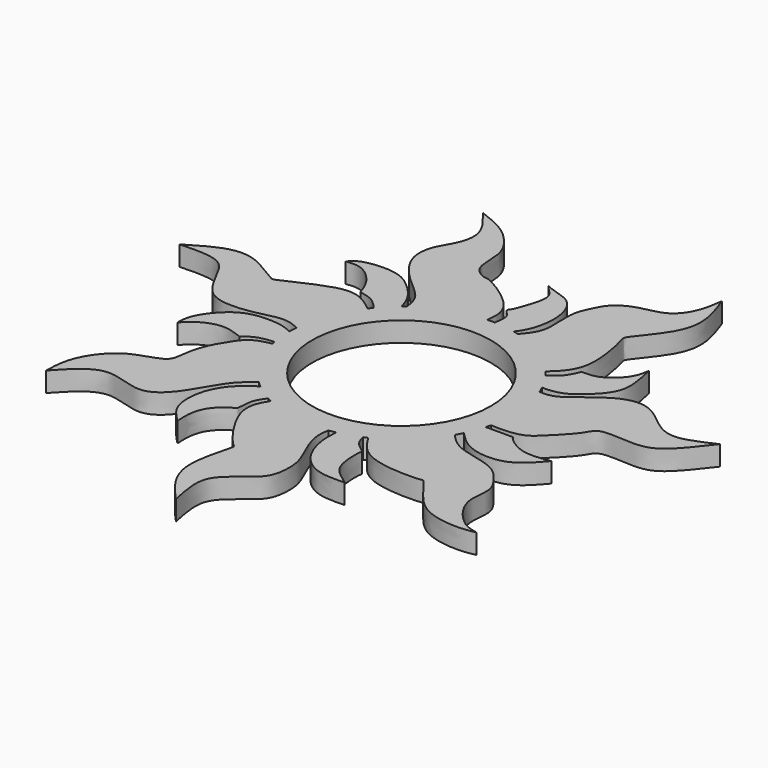
from build123d import *

# Parameters (mm, degrees)
F0_R     = 13.5
F1_DEPTH = 3


with BuildPart() as f1:
    # F0 (on Top) → F1 (new body)
    with BuildSketch(Plane.XY):
        with BuildLine():
            ThreePointArc((0.4527631407, 16.4270334261), (1.8954037957, 16.323598442), (3.3233620576, 16.0937157387))
            add(Edge.make_bspline(
                [(3.3233620576, 16.0937157387), (3.4487833909, 16.2549330611), (3.5736469408, 16.4155102917), (3.6964590938, 16.5795793548)],
                knots=[0, 0, 0, 0, 0.0508119157, 0.0508119157, 0.0508119157, 0.0508119157], degree=3))
            ThreePointArc((3.6964590938, 16.5795793548), (2.1242640518, 16.8533012687), (0.5333201696, 16.9782752661))
            add(Edge.make_bspline(
                [(0.4527631407, 16.4270334261), (0.4790581382, 16.6102726218), (0.5067720833, 16.7950140582), (0.5333201696, 16.9782752661)],
                knots=[0, 0, 0, 0, 0.1003175762, 0.1003175762, 0.1003175762, 0.1003175762], degree=3))
        make_face()
        with BuildLine():
            ThreePointArc((4.0727403554, 15.9205906813), (8.7406195199, 13.9159617724), (12.5731990081, 10.5814502005))
            add(Edge.make_bspline(
                [(12.5731990081, 10.5814502005), (12.7125886214, 10.7023675799), (12.8519824761, 10.8232868798), (12.9904064171, 10.9451177488)],
                knots=[0, 0, 0, 0, 0.0180966737, 0.0180966737, 0.0180966737, 0.0180966737], degree=3))
            ThreePointArc((12.9904064171, 10.9451177488), (9.1484644569, 14.3126468375), (4.4789880584, 16.3855096774))
            add(Edge.make_bspline(
                [(4.4789880584, 16.3855096774), (4.3450801169, 16.230546624), (4.2089114271, 16.0756383257), (4.0727403554, 15.9205906813)],
                knots=[0.978234219, 0.978234219, 0.978234219, 0.978234219, 1, 1, 1, 1], degree=3))
        make_face()
        with BuildLine():
            ThreePointArc((4.4789880584, 16.3855096774), (9.1484644569, 14.3126468375), (12.9904064171, 10.9451177488))
            add(Edge.make_bspline(
                [(12.9904064171, 10.9451177488), (14.2659897877, 12.0677951516), (16.9982306912, 14.8157535852), (14.9979748472, 22.9349522822), (14.6949780018, 23.705672023), (18.8244218218, 28.1659606503), (19.9238392424, 32.7431332441), (18.6806944754, 36.1942223283), (18.0421032829, 37.967014264)],
                knots=[0.0180966737, 0.0180966737, 0.0180966737, 0.0180966737, 0.1848584048, 0.3999481418, 0.4683328469, 0.6496963086, 0.8200471252, 1, 1, 1, 1], degree=3))
            add(Edge.make_bspline(
                [(18.0421032829, 37.967014264), (17.8467165036, 36.6517416674), (17.4689388233, 34.1086804262), (15.1529808536, 31.1251563171), (11.5139952383, 30.7899884606), (8.3275766948, 29.2321167255), (7.1223281241, 26.7438482337), (6.0583284394, 24.4307638311), (6.5073952788, 20.5451517214), (6.0435773761, 18.2825255825), (4.9972076363, 16.9852118846), (4.4789880584, 16.3855096774)],
                knots=[0, 0, 0, 0, 0.1238723684, 0.2395559216, 0.3575619978, 0.4731456599, 0.57436984, 0.6740714182, 0.7962651246, 0.8940013222, 0.978234219, 0.978234219, 0.978234219, 0.978234219], degree=3))
        make_face()
        with BuildLine():
            ThreePointArc((13.5935800904, 10.1863065799), (14.4908261869, 8.8635330335), (15.2597709194, 7.4622820171))
            add(Edge.make_bspline(
                [(15.2597709194, 7.4622820171), (16.1828174834, 7.477072795), (18.2730422064, 7.6137859191), (21.111939903, 9.9590594177), (23.7019710985, 13.0899789792), (22.8770288143, 16.7050627984), (22.4228607869, 18.6943800295)],
                knots=[0.04118371, 0.04118371, 0.04118371, 0.04118371, 0.2268465315, 0.4673783033, 0.7071278074, 1, 1, 1, 1], degree=3))
            add(Edge.make_bspline(
                [(16.3981906139, 13.5147989797), (17.2593589802, 13.5181241922), (19.136386723, 13.5253719223), (22.0601085214, 16.2568734962), (22.3109716633, 17.94254332), (22.4228607869, 18.6943800295)],
                knots=[0, 0, 0, 0, 0.3195543204, 0.6965099372, 1, 1, 1, 1], degree=3))
            add(Edge.make_bspline(
                [(13.5935800904, 10.1863065799), (14.1455824654, 10.490686809), (15.3775166687, 11.2640254723), (16.0264698685, 12.6937374021), (16.3981906139, 13.5147989797)],
                knots=[0.111597176, 0.111597176, 0.111597176, 0.111597176, 0.4901789333, 1, 1, 1, 1], degree=3))
        make_face()
        with BuildLine():
            ThreePointArc((13.1004007557, 9.9212862917), (13.9268795251, 8.7232131887), (14.6441078517, 7.4567101908))
            add(Edge.make_bspline(
                [(14.6441078517, 7.4567101908), (14.8496564688, 7.4579228817), (15.0550208156, 7.4590011281), (15.2597709194, 7.4622820171)],
                knots=[0, 0, 0, 0, 0.04118371, 0.04118371, 0.04118371, 0.04118371], degree=3))
            ThreePointArc((15.2597709194, 7.4622820171), (14.4908261869, 8.8635330335), (13.5935800904, 10.1863065799))
            add(Edge.make_bspline(
                [(13.1004007557, 9.9212862917), (13.2657962923, 10.0090449954), (13.4308625135, 10.0965823042), (13.5935800904, 10.1863065799)],
                knots=[0, 0, 0, 0, 0.111597176, 0.111597176, 0.111597176, 0.111597176], degree=3))
        make_face()
        with BuildLine():
            ThreePointArc((-12.9731480687, 10.9655684121), (-11.8462646266, 12.1742464166), (-10.6072694911, 13.2677087456))
            add(Edge.make_bspline(
                [(-10.6072694911, 13.2677087456), (-10.8121057676, 13.9796399603), (-11.3758915495, 15.6657179535), (-13.6312792056, 18.1085203994), (-16.4483789451, 20.0365489105), (-21.6990239519, 19.6225686413), (-22.6308255147, 18.570666018), (-22.9810527918, 18.1753152704)],
                knots=[0.0403795604, 0.0403795604, 0.0403795604, 0.0403795604, 0.1891084255, 0.3957491623, 0.6038140496, 0.8511402726, 1, 1, 1, 1], degree=3))
            add(Edge.make_bspline(
                [(-22.9810527918, 18.1753152704), (-22.3351932658, 18.2569623749), (-20.9527410188, 18.4317267291), (-18.7195824137, 16.9788644389), (-17.2818001665, 14.8654049149), (-16.9133868901, 13.698228284), (-16.7467538984, 13.1703153495)],
                knots=[0, 0, 0, 0, 0.2366816357, 0.5066133516, 0.7768416652, 1, 1, 1, 1], degree=3))
            add(Edge.make_bspline(
                [(-16.7467538984, 13.1703153495), (-15.973162109, 13.0032103429), (-14.5355683178, 12.6928167423), (-13.4561034794, 11.5357629696), (-12.9731480687, 10.9655684121)],
                knots=[0, 0, 0, 0, 0.4824683784, 0.8965523207, 0.8965523207, 0.8965523207, 0.8965523207], degree=3))
        make_face()
        with BuildLine():
            ThreePointArc((-16.9330431484, 1.3484476808), (-15.8422669219, 6.1293425577), (-13.4312344285, 10.3994328278))
            add(Edge.make_bspline(
                [(-41.0277742945, 9.335494722), (-39.307595712, 10.3780637608), (-36.0680062348, 12.3415253565), (-31.6213299503, 12.4141815889), (-27.1768278645, 9.1822086987), (-26.5044653271, 9.2553846178), (-20.7465897391, 12.1695267715), (-16.7147367235, 12.8638566017), (-14.4710894512, 11.2205910602), (-13.4312344285, 10.3994328278)],
                knots=[0, 0, 0, 0, 0.1688945728, 0.3182243367, 0.475713053, 0.5318675548, 0.7068041557, 0.8542492245, 0.9822269538, 0.9822269538, 0.9822269538, 0.9822269538], degree=3))
            add(Edge.make_bspline(
                [(-16.9330431484, 1.3484476808), (-17.6552161066, 1.6776822827), (-19.3456001564, 2.3371633989), (-22.42292938, 1.4083511227), (-26.0711758134, 0.7941494527), (-30.3268172599, 1.2903414052), (-32.6075681703, 5.7944472057), (-34.5287737714, 9.5867307578), (-38.694901891, 9.4256785613), (-41.0277742945, 9.335494722)],
                knots=[0.0241408886, 0.0241408886, 0.0241408886, 0.0241408886, 0.1215365173, 0.2503603451, 0.3890133713, 0.5292988112, 0.6847243272, 0.8235284172, 1, 1, 1, 1], degree=3))
        make_face()
        with BuildLine():
            ThreePointArc((-16.6990076951, -3.1127806565), (-16.9154455112, -1.5536938472), (-16.986639175, 0.0187337249))
            add(Edge.make_bspline(
                [(-16.986639175, 0.0187337249), (-17.3887176079, 0.2458947176), (-18.6942913282, 0.8738148671), (-22.4554754584, 1.0866507921), (-25.8044073085, -0.1981335994), (-28.6770183113, -3.9436187867), (-28.7157597139, -5.6532889989), (-28.7320551573, -6.3709209444)],
                knots=[0.0524226449, 0.0524226449, 0.0524226449, 0.0524226449, 0.1631535311, 0.3839877932, 0.5963877707, 0.8306905856, 1, 1, 1, 1], degree=3))
            add(Edge.make_bspline(
                [(-28.7320551573, -6.3709209444), (-28.1723099827, -5.8107323128), (-26.9819646803, -4.6194439615), (-23.8521594488, -3.4827851427), (-21.8132106972, -4.2354276081), (-20.7855215087, -4.614781196)],
                knots=[0, 0, 0, 0, 0.3056728093, 0.6500389985, 1, 1, 1, 1], degree=3))
            add(Edge.make_bspline(
                [(-20.7855215087, -4.614781196), (-20.2339532224, -4.1936983711), (-19.155497956, -3.3712038144), (-17.5229116032, -3.1793418572), (-16.6990076951, -3.1127806565)],
                knots=[0, 0, 0, 0, 0.461239649, 0.9015857316, 0.9015857316, 0.9015857316, 0.9015857316], degree=3))
        make_face()
        with BuildLine():
            add(Edge.make_bspline(
                [(-11.7085513843, -12.3067496073), (-12.5637341353, -12.9369029582), (-14.6329069382, -14.5869109765), (-17.0243995718, -19.7601046139), (-21.2169981688, -23.8423369422), (-27.8011879406, -19.8492781515), (-31.3249280092, -23.6758776784), (-33.1614554136, -25.6702639399)],
                knots=[0.0251341018, 0.0251341018, 0.0251341018, 0.0251341018, 0.1673185585, 0.375335195, 0.5643454095, 0.7730681591, 1, 1, 1, 1], degree=3))
            ThreePointArc((-11.7085513843, -12.3067496073), (-14.8007876107, -8.3356431976), (-16.593655783, -3.6327467801))
            add(Edge.make_bspline(
                [(-33.1614554136, -25.6702639399), (-33.1203726323, -24.2564823716), (-33.0299493312, -21.1448074976), (-29.1354744784, -15.7332275666), (-23.3166653163, -14.9806148379), (-23.2591753049, -12.3891760003), (-22.5177054073, -9.1520740142), (-20.9754643343, -6.5243403299), (-19.4339472278, -4.2885952909), (-17.5405347663, -3.821733171), (-16.593655783, -3.6327467801)],
                knots=[0, 0, 0, 0, 0.1368435945, 0.3013320487, 0.4485248019, 0.541681764, 0.660609366, 0.7754870934, 0.8823687774, 0.9811940127, 0.9811940127, 0.9811940127, 0.9811940127], degree=3))
        make_face()
        with BuildLine():
            ThreePointArc((-12.6131627807, 10.5337811973), (-11.5791959189, 11.6608165886), (-10.4449256814, 12.6868415751))
            add(Edge.make_bspline(
                [(-10.4449256814, 12.6868415751), (-10.4983380831, 12.8806706216), (-10.5516568916, 13.0744209833), (-10.6072694911, 13.2677087456)],
                knots=[0, 0, 0, 0, 0.0403795604, 0.0403795604, 0.0403795604, 0.0403795604], degree=3))
            ThreePointArc((-10.6072694911, 13.2677087456), (-11.8462646266, 12.1742464166), (-12.9731480687, 10.9655684121))
            add(Edge.make_bspline(
                [(-12.9731480687, 10.9655684121), (-12.8524947148, 10.8231207157), (-12.7328155406, 10.6784390146), (-12.6131627807, 10.5337811973)],
                knots=[0.8965523207, 0.8965523207, 0.8965523207, 0.8965523207, 1, 1, 1, 1], degree=3))
        make_face()
        with BuildLine():
            ThreePointArc((-10.0711756844, 12.9855243243), (-5.6386794289, 15.4355989822), (-0.6706149311, 16.419582737))
            add(Edge.make_bspline(
                [(-0.6706149311, 16.419582737), (-0.6454173261, 16.6052645006), (-0.6202197211, 16.7909462642), (-0.5971456967, 16.976150283)],
                knots=[0, 0, 0, 0, 0.018603457, 0.018603457, 0.018603457, 0.018603457], degree=3))
            ThreePointArc((-0.5971456967, 16.976150283), (-5.6210702779, 16.029654717), (-10.1358548389, 13.6312401527))
            add(Edge.make_bspline(
                [(-10.1358548389, 13.6312401527), (-10.1121618411, 13.4170620603), (-10.0917900927, 13.2013905134), (-10.0711756844, 12.9855243243)],
                knots=[0.9773256654, 0.9773256654, 0.9773256654, 0.9773256654, 1, 1, 1, 1], degree=3))
        make_face()
        with BuildLine():
            ThreePointArc((-16.3965437097, 1.0980783308), (-15.364473098, 5.8296987971), (-12.9980350266, 10.0550239727))
            add(Edge.make_bspline(
                [(-13.4312344285, 10.3994328278), (-13.2868234324, 10.2853935861), (-13.1424640521, 10.1702434414), (-12.9980350266, 10.0550239727)],
                knots=[0.9822269538, 0.9822269538, 0.9822269538, 0.9822269538, 1, 1, 1, 1], degree=3))
            ThreePointArc((-13.4312344285, 10.3994328278), (-15.8422669219, 6.1293425577), (-16.9330431484, 1.3484476808))
            add(Edge.make_bspline(
                [(-16.3965437097, 1.0980783308), (-16.5753854586, 1.1824534057), (-16.7540423333, 1.266842213), (-16.9330431484, 1.3484476808)],
                knots=[0, 0, 0, 0, 0.0241408886, 0.0241408886, 0.0241408886, 0.0241408886], degree=3))
        make_face()
        with BuildLine():
            ThreePointArc((-16.1438018089, -3.0708443136), (-16.345387121, -1.6972747294), (-16.4303174688, -0.3115919099))
            add(Edge.make_bspline(
                [(-16.4303174688, -0.3115919099), (-16.613538297, -0.2002660464), (-16.7962856464, -0.0888097119), (-16.986639175, 0.0187337249)],
                knots=[0, 0, 0, 0, 0.0524226449, 0.0524226449, 0.0524226449, 0.0524226449], degree=3))
            ThreePointArc((-16.986639175, 0.0187337249), (-16.9154455112, -1.5536938472), (-16.6990076951, -3.1127806565))
            add(Edge.make_bspline(
                [(-16.6990076951, -3.1127806565), (-16.5148709363, -3.0979046938), (-16.3294091418, -3.0843846825), (-16.1438018089, -3.0708443136)],
                knots=[0.9015857316, 0.9015857316, 0.9015857316, 0.9015857316, 1, 1, 1, 1], degree=3))
        make_face()
        with BuildLine():
            add(Edge.make_bspline(
                [(-11.2540092789, -11.9749612439), (-11.4057369234, -12.0852063341), (-11.5573797948, -12.1953567107), (-11.7085513843, -12.3067496073)],
                knots=[0, 0, 0, 0, 0.0251341018, 0.0251341018, 0.0251341018, 0.0251341018], degree=3))
            ThreePointArc((-11.2540092789, -11.9749612439), (-14.2905813261, -8.1136740756), (-16.0502304246, -3.5273963427))
            add(Edge.make_bspline(
                [(-16.593655783, -3.6327467801), (-16.4134690715, -3.59678354), (-16.2319334427, -3.5620986827), (-16.0502304246, -3.5273963427)],
                knots=[0.9811940127, 0.9811940127, 0.9811940127, 0.9811940127, 1, 1, 1, 1], degree=3))
            ThreePointArc((-16.593655783, -3.6327467801), (-14.8007876107, -8.3356431976), (-11.7085513843, -12.3067496073))
        make_face()
        with BuildLine():
            ThreePointArc((-10.1358548389, 13.6312401527), (-5.6210702779, 16.029654717), (-0.5971456967, 16.976150283))
            add(Edge.make_bspline(
                [(-0.5971456967, 16.976150283), (-0.4825529126, 17.8959310591), (-0.3379183494, 20.0067587537), (-2.8302857406, 22.8005158844), (-6.8746739019, 25.3409692611), (-7.9425592595, 25.1592865662), (-10.2331198387, 26.6919201431), (-9.6035348775, 31.0353798164), (-11.6639226786, 34.1456746978), (-14.0851513147, 36.4043959892), (-16.6616680693, 37.4231648001), (-18.0370902854, 37.967014264)],
                knots=[0.018603457, 0.018603457, 0.018603457, 0.018603457, 0.1109940124, 0.2333843672, 0.3652711915, 0.4275295578, 0.518848584, 0.6441424371, 0.7614082538, 0.8726325425, 1, 1, 1, 1], degree=3))
            add(Edge.make_bspline(
                [(-18.0370902854, 37.967014264), (-17.5940621294, 37.4182756325), (-16.6237454997, 36.2164325473), (-14.7813352908, 33.4221518857), (-15.5058604166, 30.0896936739), (-17.3456132755, 27.6267320967), (-17.8578980349, 24.0860322771), (-15.6283346929, 20.6772994367), (-13.1103556528, 18.4010845974), (-10.5442012378, 16.2758173754), (-10.2251889598, 14.4387956942), (-10.1358548389, 13.6312401527)],
                knots=[0, 0, 0, 0, 0.0933980686, 0.2046475981, 0.3156204659, 0.4246750714, 0.5380132235, 0.6608221453, 0.7775949774, 0.8918323995, 0.9773256654, 0.9773256654, 0.9773256654, 0.9773256654], degree=3))
        make_face()
        with BuildLine():
            add(Edge.make_bspline(
                [(-8.2230443778, -14.8636402868), (-8.1045741438, -14.7181084221), (-7.9830174259, -14.5746153084), (-7.8613460579, -14.4309271982)],
                knots=[0.9606222948, 0.9606222948, 0.9606222948, 0.9606222948, 1, 1, 1, 1], degree=3))
            ThreePointArc((-7.8613460579, -14.4309271982), (-9.1801989834, -13.629980494), (-10.4181156539, -12.7088665059))
            add(Edge.make_bspline(
                [(-10.4181156539, -12.7088665059), (-10.5784255637, -12.8155006139), (-10.7387354735, -12.9221347218), (-10.898439232, -13.0295926154)],
                knots=[0, 0, 0, 0, 0.038206002, 0.038206002, 0.038206002, 0.038206002], degree=3))
            ThreePointArc((-10.898439232, -13.0295926154), (-9.6046195435, -14.0106225715), (-8.2230443778, -14.8636402868))
        make_face()
        with BuildLine():
            add(Edge.make_bspline(
                [(2.5127707586, -16.240024777), (2.4751732901, -16.4315840041), (2.437511836, -16.6229302306), (2.4030873171, -16.815809013)],
                knots=[0, 0, 0, 0, 0.0247923262, 0.0247923262, 0.0247923262, 0.0247923262], degree=3))
            ThreePointArc((2.5127707586, -16.240024777), (-2.5012372894, -16.2418051234), (-7.2823949703, -14.7315696767))
            add(Edge.make_bspline(
                [(-7.2823949703, -14.7315696767), (-7.3846301816, -14.886808899), (-7.4868170848, -15.0419943563), (-7.5868062049, -15.198244406)],
                knots=[0, 0, 0, 0, 0.022503569, 0.022503569, 0.022503569, 0.022503569], degree=3))
            ThreePointArc((-7.5868062049, -15.198244406), (-2.7151177122, -16.7682556405), (2.4030873171, -16.815809013))
        make_face()
        with BuildLine():
            add(Edge.make_bspline(
                [(-13.029303097, -26.0136814998), (-13.0730096073, -25.2830075503), (-13.167117086, -23.7096644694), (-12.3872059856, -20.8496099051), (-9.8162982617, -19.1621967365), (-9.4112540936, -19.1249618256), (-9.5752885617, -16.7154508444), (-8.6871182581, -15.4337205076), (-8.2230443778, -14.8636402868)],
                knots=[0, 0, 0, 0, 0.1748163385, 0.3767114929, 0.5711185091, 0.6318558526, 0.8063711901, 0.9606222948, 0.9606222948, 0.9606222948, 0.9606222948], degree=3))
            ThreePointArc((-8.2230443778, -14.8636402868), (-9.6046195435, -14.0106225715), (-10.898439232, -13.0295926154))
            add(Edge.make_bspline(
                [(-10.898439232, -13.0295926154), (-11.7257817583, -13.5862763527), (-13.5569044238, -14.892985536), (-15.6757702281, -18.1117107852), (-15.8899042031, -23.2276881335), (-13.9484435932, -25.1185132362), (-13.029303097, -26.0136814998)],
                knots=[0.038206002, 0.038206002, 0.038206002, 0.038206002, 0.2361315266, 0.4850523643, 0.7562097202, 1, 1, 1, 1], degree=3))
        make_face()
        with BuildLine():
            add(Edge.make_bspline(
                [(2.4030873171, -16.815809013), (2.2824656276, -17.4916460418), (2.0744702783, -19.2780590195), (3.5911186259, -22.9514558684), (4.885314576, -25.5373164748), (4.7274184876, -29.303915319), (3.5765352122, -31.1463708757), (1.0663023641, -32.9703974563), (-1.987011218, -35.6240455635), (-1.1453817831, -39.5466981791), (-0.6706149311, -41.7594847613)],
                knots=[0.0247923262, 0.0247923262, 0.0247923262, 0.0247923262, 0.1116633229, 0.2481951328, 0.3656656718, 0.4918672032, 0.5893609839, 0.7068851115, 0.8347186263, 1, 1, 1, 1], degree=3))
            ThreePointArc((2.4030873171, -16.815809013), (-2.7151177122, -16.7682556405), (-7.5868062049, -15.198244406))
            add(Edge.make_bspline(
                [(-7.5868062049, -15.198244406), (-8.33801145, -16.3721306934), (-9.914520043, -19.4740301123), (-4.2438556704, -26.8701408626), (-3.3436946067, -26.8395693368), (-6.5850698157, -35.2796620948), (-2.699757841, -39.5363465469), (-0.6706149311, -41.7594847613)],
                knots=[0.022503569, 0.022503569, 0.022503569, 0.022503569, 0.1915699542, 0.4474933724, 0.5077052206, 0.7429989741, 1, 1, 1, 1], degree=3))
        make_face()
        with BuildLine():
            add(Edge.make_bspline(
                [(12.2336896733, -26.0136814998), (11.6559905609, -25.5991323882), (10.4553874749, -24.7375905948), (8.7631850451, -23.0130011679), (8.7008057685, -18.926913847), (9.002147693, -18.4482124483), (7.170692288, -17.4135753169), (6.8071920561, -16.1861300192), (6.6970035317, -15.6107784915)],
                knots=[0, 0, 0, 0, 0.1709794325, 0.3556220444, 0.5843227931, 0.6590622669, 0.8225020381, 0.9567022536, 0.9567022536, 0.9567022536, 0.9567022536], degree=3))
            ThreePointArc((6.6970035317, -15.6107784915), (5.0886582099, -16.206536306), (3.4284344954, -16.6370700042))
            add(Edge.make_bspline(
                [(3.4284344954, -16.6370700042), (3.3695733555, -17.5192452575), (3.2980191532, -19.6378076146), (4.5850016442, -23.5390964862), (7.8512727278, -26.1461652599), (10.7478020378, -26.0586010005), (12.2336896733, -26.0136814998)],
                knots=[0.0411646847, 0.0411646847, 0.0411646847, 0.0411646847, 0.2304963736, 0.4895181734, 0.7381284451, 1, 1, 1, 1], degree=3))
        make_face()
        with BuildLine():
            add(Edge.make_bspline(
                [(14.7627039161, -8.4029063128), (15.4896895957, -9.210725207), (17.3850143763, -11.0763829159), (23.2358763569, -11.6253394246), (25.3764758682, -14.2925915553), (27.2120585249, -16.7783071286), (25.7772445298, -20.90390202), (29.6141395982, -25.6889317882), (31.5487067136, -26.0873505305), (32.339875139, -26.2502895402)],
                knots=[0.0219039842, 0.0219039842, 0.0219039842, 0.0219039842, 0.1437770886, 0.3177942403, 0.4485702039, 0.5683051256, 0.7119633704, 0.8822392742, 1, 1, 1, 1], degree=3))
            ThreePointArc((14.7627039161, -8.4029063128), (11.5449125985, -12.4603874141), (7.254143333, -15.3598068321))
            add(Edge.make_bspline(
                [(7.254143333, -15.3598068321), (8.1540818779, -16.8779695596), (10.4022282172, -20.1515119248), (18.7970293333, -19.9720811524), (19.221211033, -19.5980178605), (21.7781287099, -23.4458528888), (24.8047600832, -26.1903887304), (29.8099860099, -26.7629114059), (31.5883942051, -26.402559219), (32.339875139, -26.2502895402)],
                knots=[0.016931756, 0.016931756, 0.016931756, 0.016931756, 0.1783031536, 0.380387567, 0.4238379613, 0.5701639893, 0.725290091, 0.8839226782, 1, 1, 1, 1], degree=3))
        make_face()
        with BuildLine():
            Line((20.486313959, -4.5487401429), (16.3662831617, -4.5487401429))
            ThreePointArc((16.3662831617, -4.5487401429), (15.9017307385, -5.9733760082), (15.3134349432, -7.3515285252))
            add(Edge.make_bspline(
                [(15.3134349432, -7.3515285252), (16.1940361828, -8.2969953429), (18.29229312, -10.3354155829), (24.2353130779, -10.7036825886), (26.6364624766, -7.8956785511), (27.8310326543, -6.4987910946)],
                knots=[0.0418700614, 0.0418700614, 0.0418700614, 0.0418700614, 0.3137652151, 0.6586486207, 1, 1, 1, 1], degree=3))
            add(Edge.make_bspline(
                [(20.486313959, -4.5487401429), (20.5616871826, -4.6801746148), (20.8129470028, -5.1183169709), (23.6168967894, -7.1610260577), (26.3505220469, -6.731447544), (27.8310326543, -6.4987910946)],
                knots=[0, 0, 0, 0, 0.1641890626, 0.5473311658, 1, 1, 1, 1], degree=3))
        make_face()
        with BuildLine():
            add(Edge.make_bspline(
                [(15.7149565135, 6.4487520648), (16.4151394123, 6.3890126856), (18.5474051593, 6.4353469778), (23.0263691342, 11.1320201228), (28.4016144893, 12.1630184783), (32.3312869435, 7.9702392062), (35.8543845299, 7.0639735167), (38.9406011755, 8.4990084126), (40.6552061366, 9.296262826)],
                knots=[0.0303291106, 0.0303291106, 0.0303291106, 0.0303291106, 0.1312110264, 0.330478124, 0.5032291085, 0.6810001406, 0.8228658846, 1, 1, 1, 1], degree=3))
            ThreePointArc((15.7149565135, 6.4487520648), (16.6656941005, 3.2864725108), (16.9866495053, 0))
            ThreePointArc((16.9866495053, 0), (16.8789991594, -1.9093582145), (16.5574125577, -3.7945158858))
            add(Edge.make_bspline(
                [(40.6552061366, 9.296262826), (39.547155306, 7.8550786614), (37.4473762998, 5.1239993771), (34.0721936303, 2.4013795765), (27.1916328709, 3.8296231616), (26.386622887, 1.3317366332), (23.1152660168, -1.9297846404), (21.1363135174, -3.8793849612), (17.4076671238, -3.8671527266), (16.5574125577, -3.7945158858)],
                knots=[0, 0, 0, 0, 0.1580276002, 0.299590613, 0.4694082587, 0.5695814292, 0.7144171641, 0.844375933, 0.9482299408, 0.9482299408, 0.9482299408, 0.9482299408], degree=3))
        make_face()
        with BuildLine():
            ThreePointArc((15.0861848551, 6.5160914788), (16.0929766918, 3.3269389596), (16.4332717875, 0))
            ThreePointArc((16.4332717875, 0), (16.3299383704, -1.8399821909), (16.0212376526, -3.6568245409))
            ThreePointArc((16.0212376526, -3.6568245409), (16.0166541641, -3.6768479751), (16.0120456501, -3.6968656644))
            add(Edge.make_bspline(
                [(16.5574125577, -3.7945158858), (16.2480682501, -3.7680887496), (16.0454028281, -3.7327659427), (16.0120456501, -3.6968656644)],
                knots=[0.9482299408, 0.9482299408, 0.9482299408, 0.9482299408, 0.9860146789, 0.9860146789, 0.9860146789, 0.9860146789], degree=3))
            ThreePointArc((16.5574125577, -3.7945158858), (16.8789991594, -1.9093582145), (16.9866495053, 0))
            ThreePointArc((16.9866495053, 0), (16.6656941005, 3.2864725108), (15.7149565135, 6.4487520648))
            add(Edge.make_bspline(
                [(15.0861848551, 6.5160914788), (15.2954408869, 6.4914791986), (15.5044537246, 6.4667120949), (15.7149565135, 6.4487520648)],
                knots=[0, 0, 0, 0, 0.0303291106, 0.0303291106, 0.0303291106, 0.0303291106], degree=3))
        make_face()
        with BuildLine():
            add(Edge.make_bspline(
                [(6.6970035317, -15.6107784915), (6.661452808, -15.4251496948), (6.6314926227, -15.2372391905), (6.6014139485, -15.0490450037)],
                knots=[0.9567022536, 0.9567022536, 0.9567022536, 0.9567022536, 1, 1, 1, 1], degree=3))
            ThreePointArc((6.6014139485, -15.0490450037), (5.0609238485, -15.6345601615), (3.4695356524, -16.0628373583))
            add(Edge.make_bspline(
                [(3.4695356524, -16.0628373583), (3.4553838977, -16.2540519693), (3.4412321431, -16.4452665803), (3.4284344954, -16.6370700042)],
                knots=[0, 0, 0, 0, 0.0411646847, 0.0411646847, 0.0411646847, 0.0411646847], degree=3))
            ThreePointArc((3.4284344954, -16.6370700042), (5.0886582099, -16.206536306), (6.6970035317, -15.6107784915))
        make_face()
        with BuildLine():
            add(Edge.make_bspline(
                [(14.3741085071, -7.9647615324), (14.5031185808, -8.111259232), (14.6320443836, -8.2577188049), (14.7627039161, -8.4029063128)],
                knots=[0, 0, 0, 0, 0.0219039842, 0.0219039842, 0.0219039842, 0.0219039842], degree=3))
            ThreePointArc((14.3741085071, -7.9647615324), (11.2197118388, -12.007101561), (6.9730293585, -14.8805000994))
            add(Edge.make_bspline(
                [(6.9730293585, -14.8805000994), (7.0663740787, -15.0405102862), (7.1597180502, -15.2005149052), (7.254143333, -15.3598068321)],
                knots=[0, 0, 0, 0, 0.016931756, 0.016931756, 0.016931756, 0.016931756], degree=3))
            ThreePointArc((7.254143333, -15.3598068321), (11.5449125985, -12.4603874141), (14.7627039161, -8.4029063128))
        make_face()
        with BuildLine():
            Line((16.3299995532, -4.5487401429), (15.8722502587, -4.2572401115))
            ThreePointArc((15.8722502587, -4.2572401115), (15.4476361831, -5.6056184314), (14.9087076956, -6.912514484))
            add(Edge.make_bspline(
                [(14.9087076956, -6.912514484), (15.0432736927, -7.0592257873), (15.1778281569, -7.2059328675), (15.3134349432, -7.3515285252)],
                knots=[0, 0, 0, 0, 0.0418700614, 0.0418700614, 0.0418700614, 0.0418700614], degree=3))
            ThreePointArc((15.3134349432, -7.3515285252), (15.9017307385, -5.9733760082), (16.3662831617, -4.5487401429))
            Line((16.3662831617, -4.5487401429), (16.3299995532, -4.5487401429))
        make_face()
        with BuildLine():
            ThreePointArc((0.5333201696, 16.9782752661), (2.1242640518, 16.8533012687), (3.6964590938, 16.5795793548))
            add(Edge.make_bspline(
                [(3.6964590938, 16.5795793548), (4.0665745059, 17.0740295161), (5.0305164504, 18.5170283693), (5.8703070972, 22.6354246015), (4.1467039316, 27.2866333398), (1.0615932524, 27.504651296), (-0.3877686989, 28.2405152387)],
                knots=[0.0508119157, 0.0508119157, 0.0508119157, 0.0508119157, 0.2039423077, 0.4707705128, 0.7338548204, 1, 1, 1, 1], degree=3))
            add(Edge.make_bspline(
                [(-0.3877686989, 20.3893595695), (0.0886545759, 20.8994150066), (0.7416216563, 22.8715498901), (1.8488999863, 26.4900366814), (0.2168528476, 27.4415567768), (-0.3877686989, 28.2405152387)],
                knots=[0, 0, 0, 0, 0.3240737906, 0.6852486069, 1, 1, 1, 1], degree=3))
            add(Edge.make_bspline(
                [(0.5333201696, 16.9782752661), (0.65716027, 17.8331423956), (0.8464788558, 19.4147663206), (-0.0277701664, 19.7583379745), (-0.3877686989, 20.3893595695)],
                knots=[0.1003175762, 0.1003175762, 0.1003175762, 0.1003175762, 0.5682736666, 1, 1, 1, 1], degree=3))
        make_face()
        with BuildLine():
            ThreePointArc((14.6441078517, 7.4567101908), (14.8725844089, 6.9898966118), (15.0861848551, 6.5160914788))
            add(Edge.make_bspline(
                [(15.0861848551, 6.5160914788), (15.2954408869, 6.4914791986), (15.5044537246, 6.4667120949), (15.7149565135, 6.4487520648)],
                knots=[0, 0, 0, 0, 0.0303291106, 0.0303291106, 0.0303291106, 0.0303291106], degree=3))
            ThreePointArc((15.7149565135, 6.4487520648), (15.495652475, 6.9592395984), (15.2597709194, 7.4622820171))
            add(Edge.make_bspline(
                [(14.6441078517, 7.4567101908), (14.8496564688, 7.4579228817), (15.0550208156, 7.4590011281), (15.2597709194, 7.4622820171)],
                knots=[0, 0, 0, 0, 0.04118371, 0.04118371, 0.04118371, 0.04118371], degree=3))
        make_face()
        with BuildLine():
            ThreePointArc((3.3233620576, 16.0937157387), (3.6990641786, 16.0115378976), (4.0727403554, 15.9205906813))
            add(Edge.make_bspline(
                [(4.4789880584, 16.3855096774), (4.3450801169, 16.230546624), (4.2089114271, 16.0756383257), (4.0727403554, 15.9205906813)],
                knots=[0.978234219, 0.978234219, 0.978234219, 0.978234219, 1, 1, 1, 1], degree=3))
            ThreePointArc((4.4789880584, 16.3855096774), (4.0888751258, 16.4871878021), (3.6964590938, 16.5795793548))
            add(Edge.make_bspline(
                [(3.3233620576, 16.0937157387), (3.4487833909, 16.2549330611), (3.5736469408, 16.4155102917), (3.6964590938, 16.5795793548)],
                knots=[0, 0, 0, 0, 0.0508119157, 0.0508119157, 0.0508119157, 0.0508119157], degree=3))
        make_face()
        with BuildLine():
            ThreePointArc((12.5731990081, 10.5814502005), (12.8410429991, 10.2547567664), (13.1004007557, 9.9212862917))
            add(Edge.make_bspline(
                [(13.1004007557, 9.9212862917), (13.2657962923, 10.0090449954), (13.4308625135, 10.0965823042), (13.5935800904, 10.1863065799)],
                knots=[0, 0, 0, 0, 0.111597176, 0.111597176, 0.111597176, 0.111597176], degree=3))
            ThreePointArc((13.5935800904, 10.1863065799), (13.2974070124, 10.5700155232), (12.9904064171, 10.9451177488))
            add(Edge.make_bspline(
                [(12.5731990081, 10.5814502005), (12.7125886214, 10.7023675799), (12.8519824761, 10.8232868798), (12.9904064171, 10.9451177488)],
                knots=[0, 0, 0, 0, 0.0180966737, 0.0180966737, 0.0180966737, 0.0180966737], degree=3))
        make_face()
        with BuildLine():
            ThreePointArc((-0.6706149311, 16.419582737), (-0.1089895813, 16.4329103604), (0.4527631407, 16.4270334261))
            add(Edge.make_bspline(
                [(0.4527631407, 16.4270334261), (0.4790581382, 16.6102726218), (0.5067720833, 16.7950140582), (0.5333201696, 16.9782752661)],
                knots=[0, 0, 0, 0, 0.1003175762, 0.1003175762, 0.1003175762, 0.1003175762], degree=3))
            ThreePointArc((0.5333201696, 16.9782752661), (-0.0319304457, 16.9866194948), (-0.5971456967, 16.976150283))
            add(Edge.make_bspline(
                [(-0.6706149311, 16.419582737), (-0.6454173261, 16.6052645006), (-0.6202197211, 16.7909462642), (-0.5971456967, 16.976150283)],
                knots=[0, 0, 0, 0, 0.018603457, 0.018603457, 0.018603457, 0.018603457], degree=3))
        make_face()
        with BuildLine():
            ThreePointArc((-10.4449256814, 12.6868415751), (-10.2591377152, 12.8375431833), (-10.0711756844, 12.9855243243))
            add(Edge.make_bspline(
                [(-10.1358548389, 13.6312401527), (-10.1121618411, 13.4170620603), (-10.0917900927, 13.2013905134), (-10.0711756844, 12.9855243243)],
                knots=[0.9773256654, 0.9773256654, 0.9773256654, 0.9773256654, 1, 1, 1, 1], degree=3))
            ThreePointArc((-10.1358548389, 13.6312401527), (-10.3731548004, 13.4515397223), (-10.6072694911, 13.2677087456))
            add(Edge.make_bspline(
                [(-10.4449256814, 12.6868415751), (-10.4983380831, 12.8806706216), (-10.5516568916, 13.0744209833), (-10.6072694911, 13.2677087456)],
                knots=[0, 0, 0, 0, 0.0403795604, 0.0403795604, 0.0403795604, 0.0403795604], degree=3))
        make_face()
        with BuildLine():
            ThreePointArc((-12.9980350266, 10.0550239727), (-12.8078360936, 10.2962010588), (-12.6131627807, 10.5337811973))
            add(Edge.make_bspline(
                [(-12.9731480687, 10.9655684121), (-12.8524947148, 10.8231207157), (-12.7328155406, 10.6784390146), (-12.6131627807, 10.5337811973)],
                knots=[0.8965523207, 0.8965523207, 0.8965523207, 0.8965523207, 1, 1, 1, 1], degree=3))
            ThreePointArc((-12.9731480687, 10.9655684121), (-13.205225524, 10.6849557919), (-13.4312344285, 10.3994328278))
            add(Edge.make_bspline(
                [(-13.4312344285, 10.3994328278), (-13.2868234324, 10.2853935861), (-13.1424640521, 10.1702434414), (-12.9980350266, 10.0550239727)],
                knots=[0.9822269538, 0.9822269538, 0.9822269538, 0.9822269538, 1, 1, 1, 1], degree=3))
        make_face()
        with BuildLine():
            ThreePointArc((-16.4303174688, -0.3115919099), (-16.4285573394, 0.3936056266), (-16.3965437097, 1.0980783308))
            add(Edge.make_bspline(
                [(-16.3965437097, 1.0980783308), (-16.5753854586, 1.1824534057), (-16.7540423333, 1.266842213), (-16.9330431484, 1.3484476808)],
                knots=[0, 0, 0, 0, 0.0241408886, 0.0241408886, 0.0241408886, 0.0241408886], degree=3))
            ThreePointArc((-16.9330431484, 1.3484476808), (-16.9728679672, 0.6841157669), (-16.986639175, 0.0187337249))
            add(Edge.make_bspline(
                [(-16.4303174688, -0.3115919099), (-16.613538297, -0.2002660464), (-16.7962856464, -0.0888097119), (-16.986639175, 0.0187337249)],
                knots=[0, 0, 0, 0, 0.0524226449, 0.0524226449, 0.0524226449, 0.0524226449], degree=3))
        make_face()
        with BuildLine():
            add(Edge.make_bspline(
                [(-10.4181156539, -12.7088665059), (-10.5784255637, -12.8155006139), (-10.7387354735, -12.9221347218), (-10.898439232, -13.0295926154)],
                knots=[0, 0, 0, 0, 0.038206002, 0.038206002, 0.038206002, 0.038206002], degree=3))
            ThreePointArc((-10.4181156539, -12.7088665059), (-10.8422739316, -12.3489885268), (-11.2540092789, -11.9749612439))
            add(Edge.make_bspline(
                [(-11.2540092789, -11.9749612439), (-11.4057369234, -12.0852063341), (-11.5573797948, -12.1953567107), (-11.7085513843, -12.3067496073)],
                knots=[0, 0, 0, 0, 0.0251341018, 0.0251341018, 0.0251341018, 0.0251341018], degree=3))
            ThreePointArc((-11.7085513843, -12.3067496073), (-11.3092719343, -12.674645152), (-10.898439232, -13.0295926154))
        make_face()
        with BuildLine():
            add(Edge.make_bspline(
                [(-7.2823949703, -14.7315696767), (-7.3846301816, -14.886808899), (-7.4868170848, -15.0419943563), (-7.5868062049, -15.198244406)],
                knots=[0, 0, 0, 0, 0.022503569, 0.022503569, 0.022503569, 0.022503569], degree=3))
            ThreePointArc((-7.2823949703, -14.7315696767), (-7.5733625001, -14.584121574), (-7.8613460579, -14.4309271982))
            add(Edge.make_bspline(
                [(-8.2230443778, -14.8636402868), (-8.1045741438, -14.7181084221), (-7.9830174259, -14.5746153084), (-7.8613460579, -14.4309271982)],
                knots=[0.9606222948, 0.9606222948, 0.9606222948, 0.9606222948, 1, 1, 1, 1], degree=3))
            ThreePointArc((-8.2230443778, -14.8636402868), (-7.906695507, -15.0343083504), (-7.5868062049, -15.198244406))
        make_face()
        with BuildLine():
            add(Edge.make_bspline(
                [(3.4695356524, -16.0628373583), (3.4553838977, -16.2540519693), (3.4412321431, -16.4452665803), (3.4284344954, -16.6370700042)],
                knots=[0, 0, 0, 0, 0.0411646847, 0.0411646847, 0.0411646847, 0.0411646847], degree=3))
            ThreePointArc((3.4695356524, -16.0628373583), (2.9924649278, -16.1585140189), (2.5127707586, -16.240024777))
            add(Edge.make_bspline(
                [(2.5127707586, -16.240024777), (2.4751732901, -16.4315840041), (2.437511836, -16.6229302306), (2.4030873171, -16.815809013)],
                knots=[0, 0, 0, 0, 0.0247923262, 0.0247923262, 0.0247923262, 0.0247923262], degree=3))
            ThreePointArc((2.4030873171, -16.815809013), (2.9171301943, -16.7342945129), (3.4284344954, -16.6370700042))
        make_face()
        with BuildLine():
            add(Edge.make_bspline(
                [(6.9730293585, -14.8805000994), (7.0663740787, -15.0405102862), (7.1597180502, -15.2005149052), (7.254143333, -15.3598068321)],
                knots=[0, 0, 0, 0, 0.016931756, 0.016931756, 0.016931756, 0.016931756], degree=3))
            ThreePointArc((6.9730293585, -14.8805000994), (6.7877448111, -14.9659260329), (6.6014139485, -15.0490450037))
            add(Edge.make_bspline(
                [(6.6970035317, -15.6107784915), (6.661452808, -15.4251496948), (6.6314926227, -15.2372391905), (6.6014139485, -15.0490450037)],
                knots=[0.9567022536, 0.9567022536, 0.9567022536, 0.9567022536, 1, 1, 1, 1], degree=3))
            ThreePointArc((6.6970035317, -15.6107784915), (6.9767020435, -15.4877981008), (7.254143333, -15.3598068321))
        make_face()
        with BuildLine():
            add(Edge.make_bspline(
                [(-16.593655783, -3.6327467801), (-16.4134690715, -3.59678354), (-16.2319334427, -3.5620986827), (-16.0502304246, -3.5273963427)],
                knots=[0.9811940127, 0.9811940127, 0.9811940127, 0.9811940127, 1, 1, 1, 1], degree=3))
            ThreePointArc((-16.0502304246, -3.5273963427), (-16.0986346565, -3.2994520516), (-16.1438018089, -3.0708443136))
            add(Edge.make_bspline(
                [(-16.6990076951, -3.1127806565), (-16.5148709363, -3.0979046938), (-16.3294091418, -3.0843846825), (-16.1438018089, -3.0708443136)],
                knots=[0.9015857316, 0.9015857316, 0.9015857316, 0.9015857316, 1, 1, 1, 1], degree=3))
            ThreePointArc((-16.6990076951, -3.1127806565), (-16.6483618281, -3.3731750408), (-16.593655783, -3.6327467801))
        make_face()
        with BuildLine():
            add(Edge.make_bspline(
                [(14.9087076956, -6.912514484), (15.0432736927, -7.0592257873), (15.1778281569, -7.2059328675), (15.3134349432, -7.3515285252)],
                knots=[0, 0, 0, 0, 0.0418700614, 0.0418700614, 0.0418700614, 0.0418700614], degree=3))
            ThreePointArc((14.9087076956, -6.912514484), (14.6508578982, -7.4434390231), (14.3741085071, -7.9647615324))
            add(Edge.make_bspline(
                [(14.3741085071, -7.9647615324), (14.5031185808, -8.111259232), (14.6320443836, -8.2577188049), (14.7627039161, -8.4029063128)],
                knots=[0, 0, 0, 0, 0.0219039842, 0.0219039842, 0.0219039842, 0.0219039842], degree=3))
            ThreePointArc((14.7627039161, -8.4029063128), (15.0472549318, -7.882028954), (15.3134349432, -7.3515285252))
        make_face()
        with BuildLine():
            add(Edge.make_bspline(
                [(16.5574125577, -3.7945158858), (16.2480682501, -3.7680887496), (16.0454028281, -3.7327659427), (16.0120456501, -3.6968656644)],
                knots=[0.9482299408, 0.9482299408, 0.9482299408, 0.9482299408, 0.9860146789, 0.9860146789, 0.9860146789, 0.9860146789], degree=3))
            ThreePointArc((16.0120456501, -3.6968656644), (15.9446099445, -3.9776670753), (15.8722502587, -4.2572401115))
            Line((15.8722502587, -4.2572401115), (16.3299995532, -4.5487401429))
            Line((16.3299995532, -4.5487401429), (16.3662831617, -4.5487401429))
            ThreePointArc((16.3662831617, -4.5487401429), (16.4661667826, -4.1727224808), (16.5574125577, -3.7945158858))
        make_face()
        with BuildLine():
            ThreePointArc((16.0212376526, -3.6568245409), (16.3299383704, -1.8399821909), (16.4332717875, 0))
            ThreePointArc((16.4332717875, 0), (16.0929766918, 3.3269389596), (15.0861848551, 6.5160914788))
            ThreePointArc((15.0861848551, 6.5160914788), (14.8725844089, 6.9898966118), (14.6441078517, 7.4567101908))
            ThreePointArc((14.6441078517, 7.4567101908), (13.9268795251, 8.7232131887), (13.1004007557, 9.9212862917))
            ThreePointArc((13.1004007557, 9.9212862917), (12.8410429991, 10.2547567664), (12.5731990081, 10.5814502005))
            ThreePointArc((12.5731990081, 10.5814502005), (8.7406195199, 13.9159617724), (4.0727403554, 15.9205906813))
            ThreePointArc((4.0727403554, 15.9205906813), (3.6990641786, 16.0115378976), (3.3233620576, 16.0937157387))
            ThreePointArc((3.3233620576, 16.0937157387), (1.8954037957, 16.323598442), (0.4527631407, 16.4270334261))
            ThreePointArc((0.4527631407, 16.4270334261), (-0.1089895813, 16.4329103604), (-0.6706149311, 16.419582737))
            ThreePointArc((-0.6706149311, 16.419582737), (-5.6386794289, 15.4355989822), (-10.0711756844, 12.9855243243))
            ThreePointArc((-10.0711756844, 12.9855243243), (-10.2591377152, 12.8375431833), (-10.4449256814, 12.6868415751))
            ThreePointArc((-10.4449256814, 12.6868415751), (-11.5791959189, 11.6608165886), (-12.6131627807, 10.5337811973))
            ThreePointArc((-12.6131627807, 10.5337811973), (-12.8078360936, 10.2962010588), (-12.9980350266, 10.0550239727))
            ThreePointArc((-12.9980350266, 10.0550239727), (-15.364473098, 5.8296987971), (-16.3965437097, 1.0980783308))
            ThreePointArc((-16.3965437097, 1.0980783308), (-16.4285573394, 0.3936056266), (-16.4303174688, -0.3115919099))
            ThreePointArc((-16.4303174688, -0.3115919099), (-16.345387121, -1.6972747294), (-16.1438018089, -3.0708443136))
            ThreePointArc((-16.1438018089, -3.0708443136), (-16.0986346565, -3.2994520516), (-16.0502304246, -3.5273963427))
            ThreePointArc((-16.0502304246, -3.5273963427), (-14.2905813261, -8.1136740756), (-11.2540092789, -11.9749612439))
            ThreePointArc((-11.2540092789, -11.9749612439), (-10.8422739316, -12.3489885268), (-10.4181156539, -12.7088665059))
            ThreePointArc((-10.4181156539, -12.7088665059), (-9.1801989834, -13.629980494), (-7.8613460579, -14.4309271982))
            ThreePointArc((-7.8613460579, -14.4309271982), (-7.5733625001, -14.584121574), (-7.2823949703, -14.7315696767))
            ThreePointArc((-7.2823949703, -14.7315696767), (-2.5012372894, -16.2418051234), (2.5127707586, -16.240024777))
            ThreePointArc((2.5127707586, -16.240024777), (2.9924649278, -16.1585140189), (3.4695356524, -16.0628373583))
            ThreePointArc((3.4695356524, -16.0628373583), (5.0609238485, -15.6345601615), (6.6014139485, -15.0490450037))
            ThreePointArc((6.6014139485, -15.0490450037), (6.7877448111, -14.9659260329), (6.9730293585, -14.8805000994))
            ThreePointArc((6.9730293585, -14.8805000994), (11.2197118388, -12.007101561), (14.3741085071, -7.9647615324))
            ThreePointArc((14.3741085071, -7.9647615324), (14.6508578982, -7.4434390231), (14.9087076956, -6.912514484))
            ThreePointArc((14.9087076956, -6.912514484), (15.4476361831, -5.6056184314), (15.8722502587, -4.2572401115))
            ThreePointArc((15.8722502587, -4.2572401115), (15.9446099445, -3.9776670753), (16.0120456501, -3.6968656644))
            add(Edge.make_bspline(
                [(16.0120456501, -3.6968656644), (15.9996991085, -3.6835778413), (16.0105473413, -3.6702109061), (16.0212376526, -3.6568245409)],
                knots=[0.9860146789, 0.9860146789, 0.9860146789, 0.9860146789, 1, 1, 1, 1], degree=3))
        make_face()
        Circle(F0_R, mode=Mode.SUBTRACT)
    extrude(amount=F1_DEPTH)


solid = f1.part
